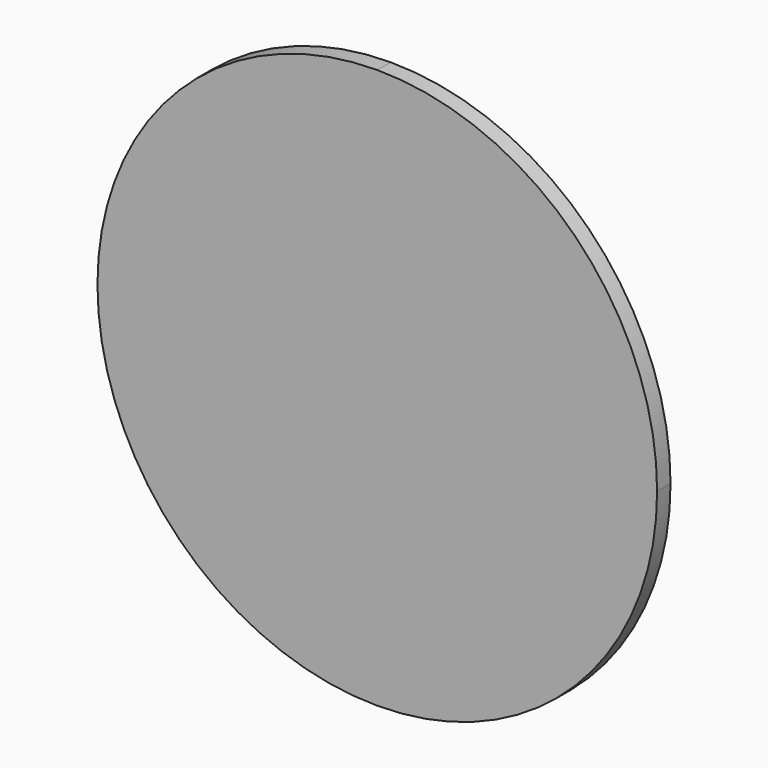
from build123d import *

# Parameters (mm, degrees)
F1_DEPTH = 3


with BuildPart() as f1:
    # F0 (on Front) → F1 (new body)
    with BuildSketch(Plane.XZ):
        with BuildLine():
            Line((0, 0), (50, 0))
            ThreePointArc((50, 0), (35.355339, 35.355339), (0, 50))
            Line((0, 50), (0, 0))
        make_face()
        with BuildLine():
            ThreePointArc((0, -50), (35.355339, -35.355339), (50, 0))
            Line((50, 0), (0, 0))
            Line((0, 0), (0, -50))
        make_face()
        with BuildLine():
            Line((0, 0), (0, 50))
            ThreePointArc((0, 50), (-35.355339, 35.355339), (-50, 0))
            Line((-50, 0), (0, 0))
        make_face()
        with BuildLine():
            ThreePointArc((-50, 0), (-35.355339, -35.355339), (0, -50))
            Line((0, -50), (0, 0))
            Line((0, 0), (-50, 0))
        make_face()
    extrude(amount=F1_DEPTH)


solid = f1.part
